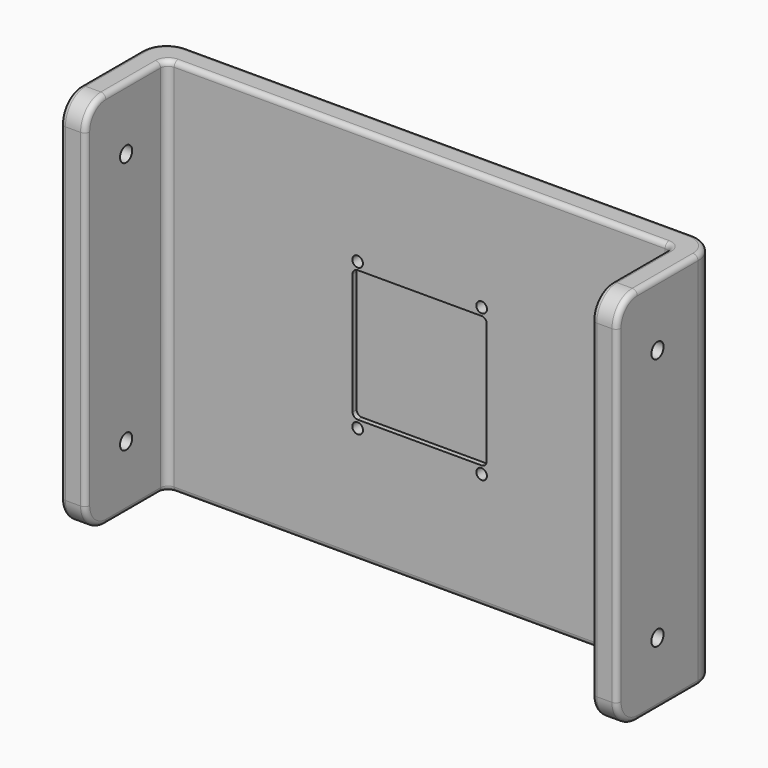
from build123d import *

# Parameters (mm, degrees)
PAD_DEPTH       = 75
SKETCH001_R     = 3
POCKET_DEPTH    = 110.001
SKETCH002_R     = 2.1
POCKET001_DEPTH = 6
SKETCH003_W     = 26.5
SKETCH003_H     = 52
POCKET002_DEPTH = 2
FILLET_R        = 10
FILLET001_R     = 3
FILLET002_R     = 2
FILLET003_R     = 2


with BuildPart() as part:
    # Sketch → Pad (new body, symmetric)
    with BuildSketch(Plane.XY):
        Polygon((0, 40), (-100, 40), (-100, 0), (-110, 0), (-110, 50), (0, 50), align=None)
        Polygon((0, 40), (0, 50), align=None)
    extrude(amount=PAD_DEPTH, both=True)

    # Sketch001 (on Face3 of Pad) → Pocket (cut, through all)
    with BuildSketch(Plane(origin=(-110, 0, 0), x_dir=(0, -1, 0), z_dir=(-1, 0, 0))):
        with Locations((-20, -50)):
            Circle(SKETCH001_R)
        with Locations((-20, 50)):
            Circle(SKETCH001_R)
    extrude(amount=-POCKET_DEPTH, mode=Mode.SUBTRACT)

    # Sketch002 → Pocket001 (cut)
    with BuildSketch(Plane.XZ.offset(-40)):
        with Locations((-24.5, 29)):
            Circle(SKETCH002_R)
        with Locations((-24.5, -29)):
            Circle(SKETCH002_R)
    extrude(amount=-POCKET001_DEPTH, mode=Mode.SUBTRACT)

    # Sketch003 (on Face2 of Pocket001) → Pocket002 (cut)
    with BuildSketch(Plane.XZ.offset(-40)):
        with Locations((-13.25, 0)):
            Rectangle(SKETCH003_W, SKETCH003_H)
    extrude(amount=-POCKET002_DEPTH, mode=Mode.SUBTRACT)

    # Fillet
    fillet_edges = [part.edges().sort_by_distance(p)[0] for p in [
        (-105, 0, -75),
        (-105, 0, 75),
        (-110, 50, 0),
    ]]
    fillet(fillet_edges, radius=FILLET_R)

    # Fillet001
    fillet001_edges = [part.edges().sort_by_distance(p)[0] for p in [
        (-100, 40, 0),
    ]]
    fillet(fillet001_edges, radius=FILLET001_R)

    # Fillet002
    fillet002_edges = [part.edges().sort_by_distance(p)[0] for p in [
        (-110, 25, -75),
        (-100, 23.5, -75),
    ]]
    fillet(fillet002_edges, radius=FILLET002_R)

    # Fillet003
    fillet003_edges = [part.edges().sort_by_distance(p)[0] for p in [
        (-26.5, 41, 26),
        (-26.5, 41, -26),
    ]]
    fillet(fillet003_edges, radius=FILLET003_R)

    # Mirrored: part across YZ


with BuildPart() as part_1:
    add(part.part)
    add(part.part.mirror(Plane.YZ))


solid = part_1.part
